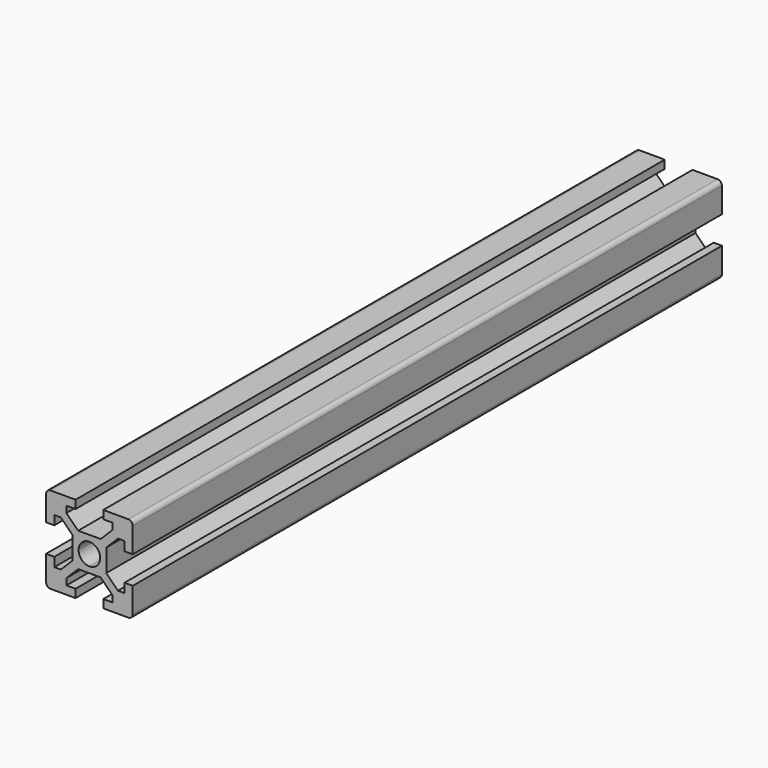
from build123d import *

# Parameters (mm, degrees)
F1_DEPTH = 170


with BuildPart() as f1:
    # F0 (on Front) → F1 (new body)
    with BuildSketch(Plane.XZ):
        with BuildLine():
            Line((0, 2.5), (0, 3.9))
            Line((0, 3.9), (-2.6, 3.9))
            Line((-2.6, 3.9), (-5.3, 6.6))
            Line((-5.3, 6.6), (-5.3, 8.1))
            Line((-5.3, 8.1), (-3.2, 8.1))
            Line((-3.2, 8.1), (-3.2, 10))
            Line((-3.2, 10), (-9, 10))
            ThreePointArc((-9, 10), (-9.707107, 9.707107), (-10, 9))
            Line((-10, 9), (-10, 3.2))
            Line((-10, 3.2), (-8.1, 3.2))
            Line((-8.1, 3.2), (-8.1, 5.3))
            Line((-8.1, 5.3), (-6.6, 5.3))
            Line((-6.6, 5.3), (-3.9, 2.6))
            Line((-3.9, 2.6), (-3.9, 0))
            Line((-3.9, 0), (-2.5, 0))
            ThreePointArc((-2.5, 0), (-1.767767, 1.767767), (0, 2.5))
        make_face()
        with BuildLine():
            Line((9, 10), (3.2, 10))
            Line((3.2, 10), (3.2, 8.1))
            Line((3.2, 8.1), (5.3, 8.1))
            Line((5.3, 8.1), (5.3, 6.6))
            Line((5.3, 6.6), (2.6, 3.9))
            Line((2.6, 3.9), (0, 3.9))
            Line((0, 3.9), (0, 2.5))
            ThreePointArc((0, 2.5), (1.767767, 1.767767), (2.5, 0))
            Line((2.5, 0), (3.9, 0))
            Line((3.9, 0), (3.9, 2.6))
            Line((3.9, 2.6), (6.6, 5.3))
            Line((6.6, 5.3), (8.1, 5.3))
            Line((8.1, 5.3), (8.1, 3.2))
            Line((8.1, 3.2), (10, 3.2))
            Line((10, 3.2), (10, 9))
            ThreePointArc((10, 9), (9.707107, 9.707107), (9, 10))
        make_face()
        with BuildLine():
            Line((3.9, 0), (2.5, 0))
            ThreePointArc((2.5, 0), (1.767767, -1.767767), (0, -2.5))
            Line((0, -2.5), (0, -3.9))
            Line((0, -3.9), (2.6, -3.9))
            Line((2.6, -3.9), (5.3, -6.6))
            Line((5.3, -6.6), (5.3, -8.1))
            Line((5.3, -8.1), (3.2, -8.1))
            Line((3.2, -8.1), (3.2, -10))
            Line((3.2, -10), (9, -10))
            ThreePointArc((9, -10), (9.707107, -9.707107), (10, -9))
            Line((10, -9), (10, -3.2))
            Line((10, -3.2), (8.1, -3.2))
            Line((8.1, -3.2), (8.1, -5.3))
            Line((8.1, -5.3), (6.6, -5.3))
            Line((6.6, -5.3), (3.9, -2.6))
            Line((3.9, -2.6), (3.9, 0))
        make_face()
        with BuildLine():
            ThreePointArc((0, -2.5), (-1.767767, -1.767767), (-2.5, 0))
            Line((-2.5, 0), (-3.9, 0))
            Line((-3.9, 0), (-3.9, -2.6))
            Line((-3.9, -2.6), (-6.6, -5.3))
            Line((-6.6, -5.3), (-8.1, -5.3))
            Line((-8.1, -5.3), (-8.1, -3.2))
            Line((-8.1, -3.2), (-10, -3.2))
            Line((-10, -3.2), (-10, -9))
            ThreePointArc((-10, -9), (-9.707107, -9.707107), (-9, -10))
            Line((-9, -10), (-3.2, -10))
            Line((-3.2, -10), (-3.2, -8.1))
            Line((-3.2, -8.1), (-5.3, -8.1))
            Line((-5.3, -8.1), (-5.3, -6.6))
            Line((-5.3, -6.6), (-2.6, -3.9))
            Line((-2.6, -3.9), (0, -3.9))
            Line((0, -3.9), (0, -2.5))
        make_face()
    extrude(amount=F1_DEPTH)


solid = f1.part
